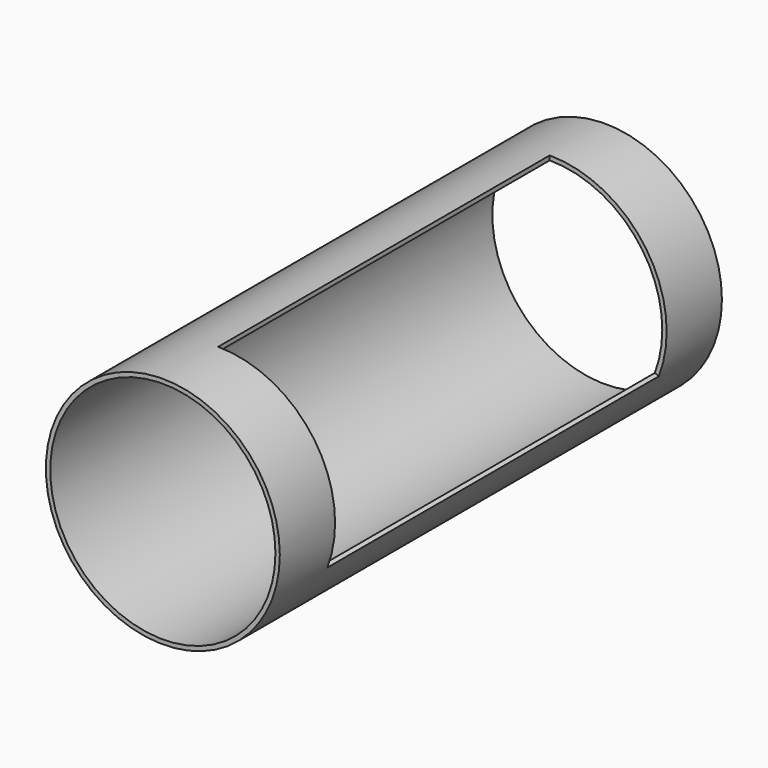
from build123d import *

# Parameters (mm, degrees)
F0_R     = 254
F0_R_2   = 244.5
F1_DEPTH = 600
F3_DEPTH = 450


with BuildPart() as f1:
    # F0 (on Front) → F1 (new body, symmetric)
    with BuildSketch(Plane.XZ):
        Circle(F0_R)
        Circle(F0_R_2, mode=Mode.SUBTRACT)
    extrude(amount=F1_DEPTH, both=True)

    # F2 (on Front) → F3 (cut, symmetric)
    with BuildSketch(Plane.XZ):
        with BuildLine():
            ThreePointArc((237.1294283303, -91.0254591845), (209.32805191, 143.8671841789), (0, 254))
            Line((0, 254), (0, 244.5))
            ThreePointArc((0, 244.5), (201.4988531181, 138.4863249281), (228.2604142786, -87.6209636638))
            Line((228.2604142786, -87.6209636638), (237.1294283303, -91.0254591845))
        make_face()
        with BuildLine():
            ThreePointArc((228.2604142786, -87.6209636638), (201.4988531181, 138.4863249281), (0, 244.5))
            Line((0, 244.5), (0, 0))
            Line((0, 0), (228.2604142786, -87.6209636638))
        make_face()
    extrude(amount=F3_DEPTH, both=True, mode=Mode.SUBTRACT)


solid = f1.part
